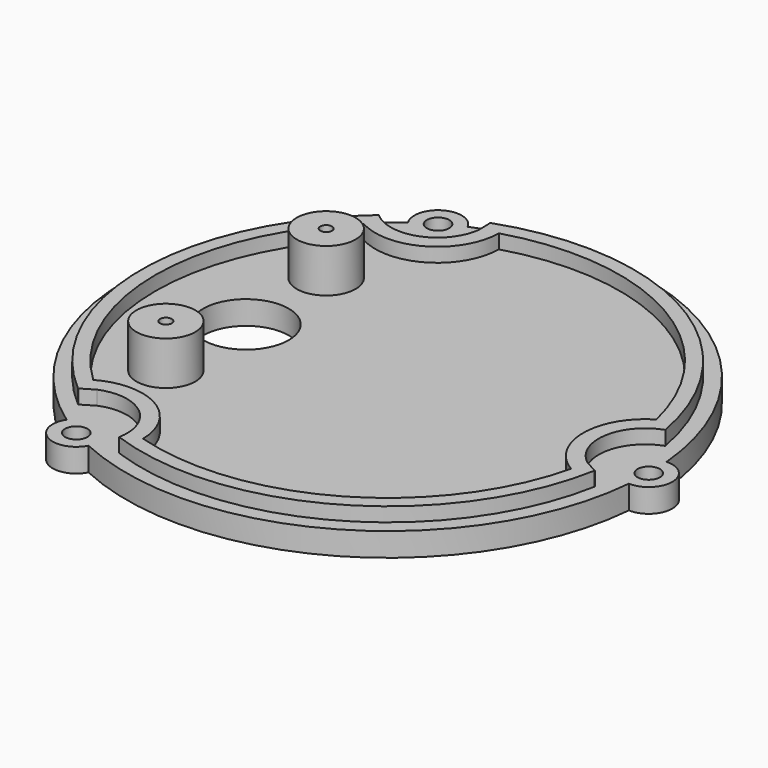
from build123d import *

# Parameters (mm, degrees)
SKETCH007_R        = 0.95
PAD003_DEPTH       = 2
PAD004_DEPTH       = 1.2
POLARPATTERN_COUNT = 3
SKETCH013_R        = 2.5
PAD006_DEPTH       = 3.7
SKETCH011_R        = 3.625
SKETCH011_R_2      = 0.5
POCKET003_DEPTH    = 5.701


with BuildPart() as part:
    # Sketch007 (on DatumPlane) → Pad003 (new body)
    with BuildSketch(Plane(origin=(0, 0, -21), x_dir=(1, 0, 0), z_dir=(0, 0, -1))):
        with BuildLine():
            ThreePointArc((22.059707, 1.997961), (11.075, 19.182463), (-9.299569, 20.103247))
            ThreePointArc((-9.299569, 20.103247), (-12.075, 20.914514), (-12.760138, 18.105286))
            ThreePointArc((-12.760138, 18.105286), (-22.15, 0), (-12.760138, -18.105286))
            ThreePointArc((-12.760138, -18.105286), (-12.075, -20.914514), (-9.299569, -20.103247))
            ThreePointArc((-9.299569, -20.103247), (11.075, -19.182463), (22.059707, -1.997961))
            ThreePointArc((22.059707, -1.997961), (24.15, 0), (22.059707, 1.997961))
        make_face()
        with Locations((22.15, 0)):
            Circle(SKETCH007_R, mode=Mode.SUBTRACT)
        with Locations((-11.075, 19.182463)):
            Circle(SKETCH007_R, mode=Mode.SUBTRACT)
        with Locations((-11.075, -19.182463)):
            Circle(SKETCH007_R, mode=Mode.SUBTRACT)
    extrude(amount=PAD003_DEPTH)

    # Sketch008 (on DatumPlane) → Pad004 (join)
    with BuildSketch(Plane.XY.offset(-21)):
        with BuildLine():
            ThreePointArc((20.563616, 3.734664), (10.457001, 18.095887), (-7.03227, 19.681392))
            Line((-7.03227, 19.681392), (-7.008244, 18.41126))
            ThreePointArc((19.172652, 4.527627), (9.229411, 17.404252), (-7.008244, 18.41126))
            ThreePointArc((19.172652, 4.527627), (16.59, 0), (19.172652, -4.527627))
            Line((20.563616, -3.734664), (19.172652, -4.527627))
            ThreePointArc((20.563616, 3.734664), (17.9, 0), (20.563616, -3.734664))
        make_face()
    pad004 = extrude(amount=PAD004_DEPTH)

    # PolarPattern: Pad004 ×3 about axis
    polarpattern_axis = Axis((0, 0, -21), (0, 0, 1))
    for i in range(1, POLARPATTERN_COUNT):
        add(pad004.rotate(polarpattern_axis, i * 360 / POLARPATTERN_COUNT))

    # Sketch013 (on DatumPlane) → Pad006 (join)
    with BuildSketch(Plane.XY.offset(-21)):
        with Locations((-12.02, 8.5)):
            Circle(SKETCH013_R)
        with Locations((-12.02, -8.5)):
            Circle(SKETCH013_R)
    extrude(amount=PAD006_DEPTH)

    # Sketch011 (on DatumPlane) → Pocket003 (cut, through all)
    with BuildSketch(Plane(origin=(0, 0, -23), x_dir=(1, 0, 0), z_dir=(0, 0, -1))):
        with Locations((-12.02, 0)):
            Circle(SKETCH011_R)
        with Locations((-12.02, 8.5)):
            Circle(SKETCH011_R_2)
        with Locations((-12.02, -8.5)):
            Circle(SKETCH011_R_2)
    extrude(amount=-POCKET003_DEPTH, mode=Mode.SUBTRACT)


solid = part.part
